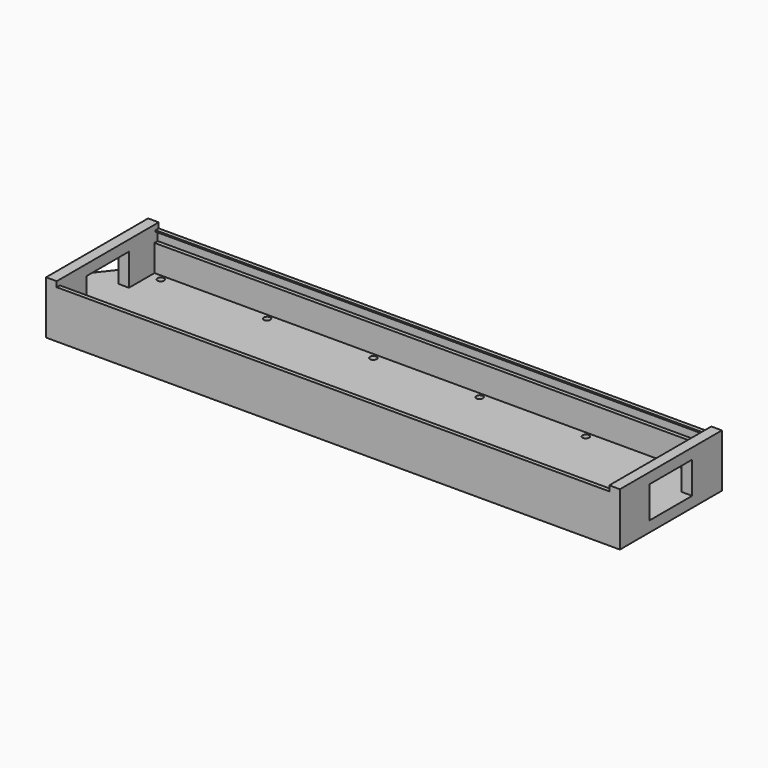
from build123d import *

# Parameters (mm, degrees)
F0_R     = 3.96875
F1_DEPTH = 12.7
F4_DEPTH = 12.7
F6_DEPTH = 12.7
F8_DEPTH = 330.2


with BuildPart() as f1:
    # F0 (on Top) → F1 (new body)
    with BuildSketch(Plane.XY):
        Polygon((342.9, 76.2), (-342.9, 76.2), (-377.825, 31.75), (-377.825, -31.75), (-342.9, -76.2), (342.9, -76.2), align=None)
        with Locations((-317.5, -63.5)):
            Circle(F0_R, mode=Mode.SUBTRACT)
        with Locations((-190.5, -63.5)):
            Circle(F0_R, mode=Mode.SUBTRACT)
        with Locations((-63.5, -63.5)):
            Circle(F0_R, mode=Mode.SUBTRACT)
        with Locations((63.5, -63.5)):
            Circle(F0_R, mode=Mode.SUBTRACT)
        with Locations((190.5, -63.5)):
            Circle(F0_R, mode=Mode.SUBTRACT)
        with Locations((317.5, -63.5)):
            Circle(F0_R, mode=Mode.SUBTRACT)
        with Locations((-317.5, 63.5)):
            Circle(F0_R, mode=Mode.SUBTRACT)
        with Locations((-190.5, 63.5)):
            Circle(F0_R, mode=Mode.SUBTRACT)
        with Locations((-63.5, 63.5)):
            Circle(F0_R, mode=Mode.SUBTRACT)
        with Locations((63.5, 63.5)):
            Circle(F0_R, mode=Mode.SUBTRACT)
        with Locations((190.5, 63.5)):
            Circle(F0_R, mode=Mode.SUBTRACT)
        with Locations((317.5, 63.5)):
            Circle(F0_R, mode=Mode.SUBTRACT)
    extrude(amount=F1_DEPTH)

    # F3 (on plane+point) → F4 (join)
    with BuildSketch(Plane.YZ.offset(-342.9)):
        Polygon((76.2, 63.5), (-76.2, 63.5), (-76.2, 12.7), (-31.75, 12.7), (-31.75, 50.8), (31.75, 50.8), (31.75, 12.7), (76.2, 12.7), align=None)
    extrude(amount=F4_DEPTH)

    # F5 (on face) → F6 (join)
    with BuildSketch(Plane.YZ.offset(342.9)):
        Polygon((-76.2, 63.5), (-76.2, 12.7), (-31.75, 12.7), (-31.75, 50.8), (31.75, 50.8), (31.75, 12.7), (76.2, 12.7), (76.2, 63.5), align=None)
    extrude(amount=-F6_DEPTH)

    # F7 (on Right) → F8 (join, symmetric)
    with BuildSketch(Plane.YZ):
        Polygon((69.85, 12.7), (76.2, 12.7), (76.2, 57.15), (71.4375, 57.15), (71.4375, 55.5625), (74.6125, 55.5625), (74.6125, 44.45), (69.85, 44.45), align=None)
        Polygon((-71.4375, 57.15), (-76.2, 57.15), (-76.2, 12.7), (-69.85, 12.7), (-69.85, 44.45), (-74.6125, 44.45), (-74.6125, 55.5625), (-71.4375, 55.5625), align=None)
    extrude(amount=F8_DEPTH, both=True)


solid = f1.part
